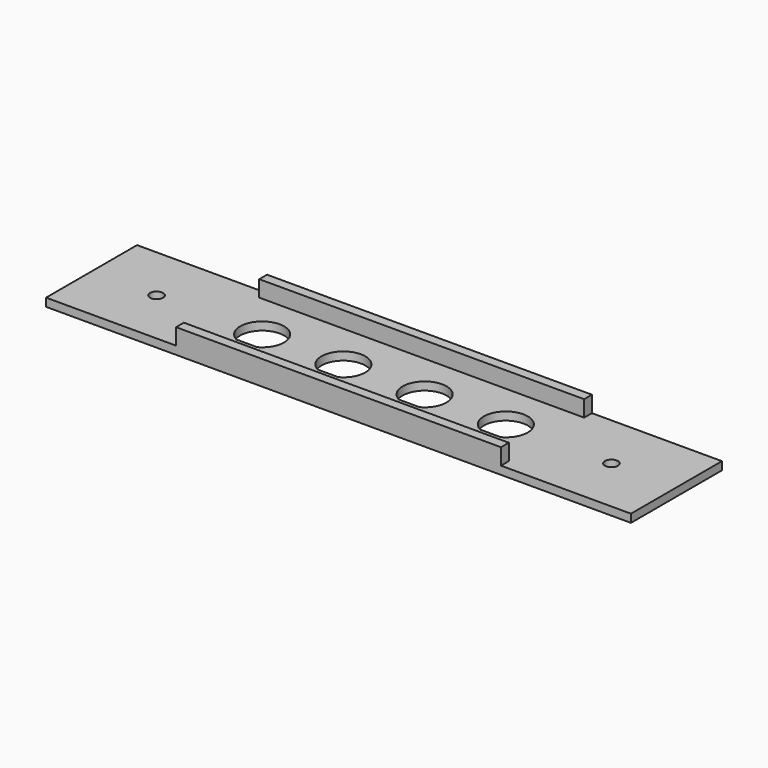
from build123d import *

# Parameters (mm, degrees)
F0_W     = 180
F0_H     = 35
F0_R     = 2
F1_DEPTH = 2.5
F2_W     = 100
F2_H     = 3
F3_DEPTH = 5


with BuildPart() as f1:
    # F0 (on Top) → F1 (new body)
    with BuildSketch(Plane.XY):
        Rectangle(F0_W, F0_H)
        with Locations((-70, 0)):
            Circle(F0_R, mode=Mode.SUBTRACT)
        with BuildLine():
            ThreePointArc((-40.687475, -5.95), (-37.5, 6.75), (-34.312525, -5.95))
            Line((-34.312525, -5.95), (-40.687475, -5.95))
        make_face(mode=Mode.SUBTRACT)
        with BuildLine():
            ThreePointArc((-15.687475, -5.95), (-12.5, 6.75), (-9.312525, -5.95))
            Line((-9.312525, -5.95), (-15.687475, -5.95))
        make_face(mode=Mode.SUBTRACT)
        with BuildLine():
            Line((15.687475, -5.95), (9.312525, -5.95))
            ThreePointArc((9.312525, -5.95), (12.5, 6.75), (15.687475, -5.95))
        make_face(mode=Mode.SUBTRACT)
        with BuildLine():
            Line((40.687475, -5.95), (34.312525, -5.95))
            ThreePointArc((34.312525, -5.95), (37.5, 6.75), (40.687475, -5.95))
        make_face(mode=Mode.SUBTRACT)
        with Locations((70, 0)):
            Circle(F0_R, mode=Mode.SUBTRACT)
    extrude(amount=F1_DEPTH)

    # F2 (on face) → F3 (join)
    with BuildSketch(Plane.XY.offset(2.5)):
        with Locations((0, -16)):
            Rectangle(F2_W, F2_H)
        with Locations((0, 16)):
            Rectangle(F2_W, F2_H)
    extrude(amount=F3_DEPTH)


solid = f1.part
